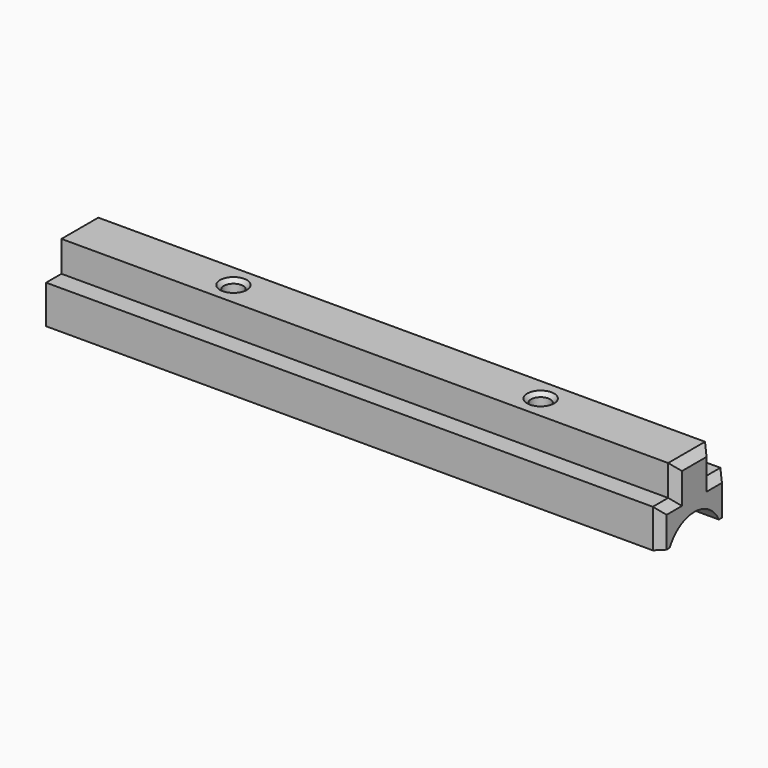
from build123d import *

# Parameters (mm, degrees)
F0_W     = 80
F0_H     = 6
F0_R     = 1.25
F1_DEPTH = 9
F0_H_2   = 2.5
F2_DEPTH = 5
F4_DEPTH = 80
F5_SIZE  = 0.5
F6_SIZE  = 1


with BuildPart() as f1:
    # F0 (on Top) → F1 (new body)
    with BuildSketch(Plane.XY):
        Rectangle(F0_W, F0_H)
        with Locations((-20, 0)):
            Circle(F0_R, mode=Mode.SUBTRACT)
        with Locations((20, 0)):
            Circle(F0_R, mode=Mode.SUBTRACT)
    extrude(amount=F1_DEPTH)

    # F0 (on Top) → F2 (join)
    with BuildSketch(Plane.XY):
        with Locations((0, -4.25)):
            Rectangle(F0_W, F0_H_2)
        with Locations((0, 4.25)):
            Rectangle(F0_W, F0_H_2)
    extrude(amount=F2_DEPTH)

    # F3 (on face) → F4 (cut)
    with BuildSketch(Plane.YZ.offset(40)):
        with BuildLine():
            Line((-4, 0), (4, 0))
            ThreePointArc((4, 0), (0, 2.5), (-4, 0))
        make_face()
    extrude(amount=-F4_DEPTH, mode=Mode.SUBTRACT)

    # F5
    f5_edges = [f1.edges().sort_by_distance(p)[0] for p in [
        (-21.25, 0, 9),
        (18.75, 0, 9),
    ]]
    chamfer(f5_edges, length=F5_SIZE)

    # F6
    f6_edges = [f1.edges().sort_by_distance(p)[0] for p in [
        (40, 4.25, 5),
        (40, 5.5, 2.5),
        (40, 3, 7),
        (40, 0, 9),
        (40, -3, 7),
        (40, -4.25, 5),
        (40, -5.5, 2.5),
    ]]
    chamfer(f6_edges, length=F6_SIZE)


solid = f1.part
